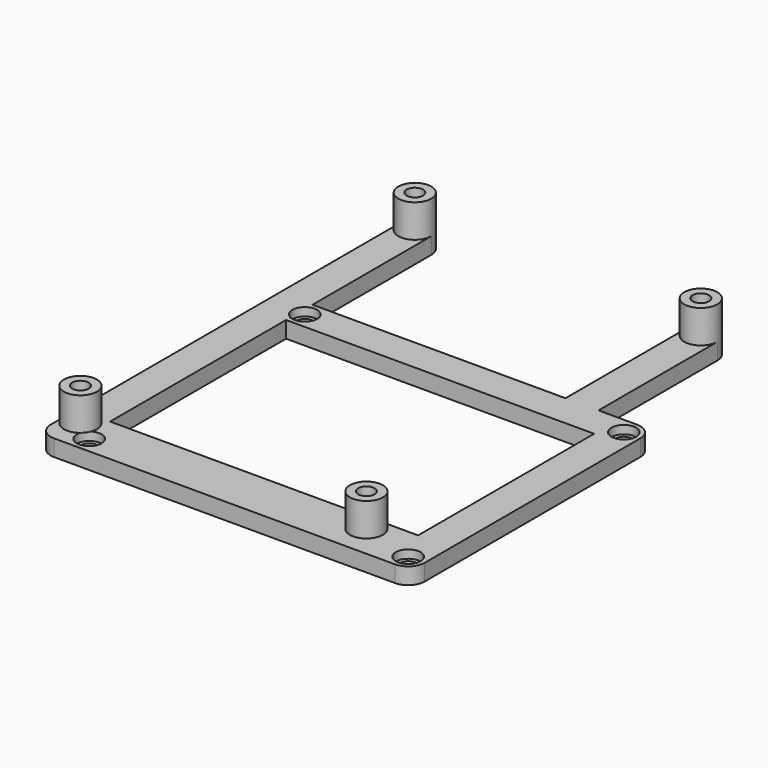
from build123d import *

# Parameters (mm, degrees)
SKETCH_R      = 1.5
SKETCH_W      = 56
SKETCH_H      = 40
PAD_DEPTH     = 3
SKETCH001_R   = 3
SKETCH001_R_2 = 1.5
PAD001_DEPTH  = 6
SKETCH002_R   = 2.25
POCKET_DEPTH  = 1.5


with BuildPart() as part:
    # Sketch → Pad (new body)
    with BuildSketch(Plane.XY):
        with BuildLine():
            Line((58, -3), (-4, -3))
            ThreePointArc((-7, 0), (-6.12132, -2.12132), (-4, -3))
            Line((-7, 0), (-7, 79))
            ThreePointArc((-1, 79), (-4, 82), (-7, 79))
            Line((-1, 79), (-1, 52))
            Line((-1, 52), (45, 52))
            Line((45, 52), (45, 79))
            ThreePointArc((51, 79), (48, 82), (45, 79))
            Line((51, 79), (51, 52))
            Line((51, 52), (58, 52))
            ThreePointArc((61, 49), (60.12132, 51.12132), (58, 52))
            Line((61, 0), (61, 49))
            ThreePointArc((58, -3), (60.12132, -2.12132), (61, 0))
        make_face()
        Circle(SKETCH_R, mode=Mode.SUBTRACT)
        with Locations((58, 0)):
            Circle(SKETCH_R, mode=Mode.SUBTRACT)
        with Locations((0, 49)):
            Circle(SKETCH_R, mode=Mode.SUBTRACT)
        with Locations((58, 49)):
            Circle(SKETCH_R, mode=Mode.SUBTRACT)
        with Locations((-4, 3)):
            Circle(SKETCH_R, mode=Mode.SUBTRACT)
        with Locations((48, 3)):
            Circle(SKETCH_R, mode=Mode.SUBTRACT)
        with Locations((48, 79)):
            Circle(SKETCH_R, mode=Mode.SUBTRACT)
        with Locations((-4, 79)):
            Circle(SKETCH_R, mode=Mode.SUBTRACT)
        with Locations((27, 26)):
            Rectangle(SKETCH_W, SKETCH_H, mode=Mode.SUBTRACT)
    extrude(amount=PAD_DEPTH)

    # Sketch001 (on Face27 of Pad) → Pad001 (join)
    with BuildSketch(Plane.XY.offset(3)):
        with Locations((-4, 79)):
            Circle(SKETCH001_R)
        with Locations((-4, 79)):
            Circle(SKETCH001_R_2, mode=Mode.SUBTRACT)
        with Locations((48, 79)):
            Circle(SKETCH001_R)
        with Locations((48, 79)):
            Circle(SKETCH001_R_2, mode=Mode.SUBTRACT)
        with Locations((48, 3)):
            Circle(SKETCH001_R)
        with Locations((48, 3)):
            Circle(SKETCH001_R_2, mode=Mode.SUBTRACT)
        with Locations((-4, 3)):
            Circle(SKETCH001_R)
        with Locations((-4, 3)):
            Circle(SKETCH001_R_2, mode=Mode.SUBTRACT)
    extrude(amount=PAD001_DEPTH)

    # Sketch002 (on Face5 of Pad001) → Pocket (cut)
    with BuildSketch(Plane.XY.offset(3)):
        Circle(SKETCH002_R)
        with Locations((58, 0)):
            Circle(SKETCH002_R)
        with Locations((58, 49)):
            Circle(SKETCH002_R)
        with Locations((0, 49)):
            Circle(SKETCH002_R)
    extrude(amount=-POCKET_DEPTH, mode=Mode.SUBTRACT)


solid = part.part
